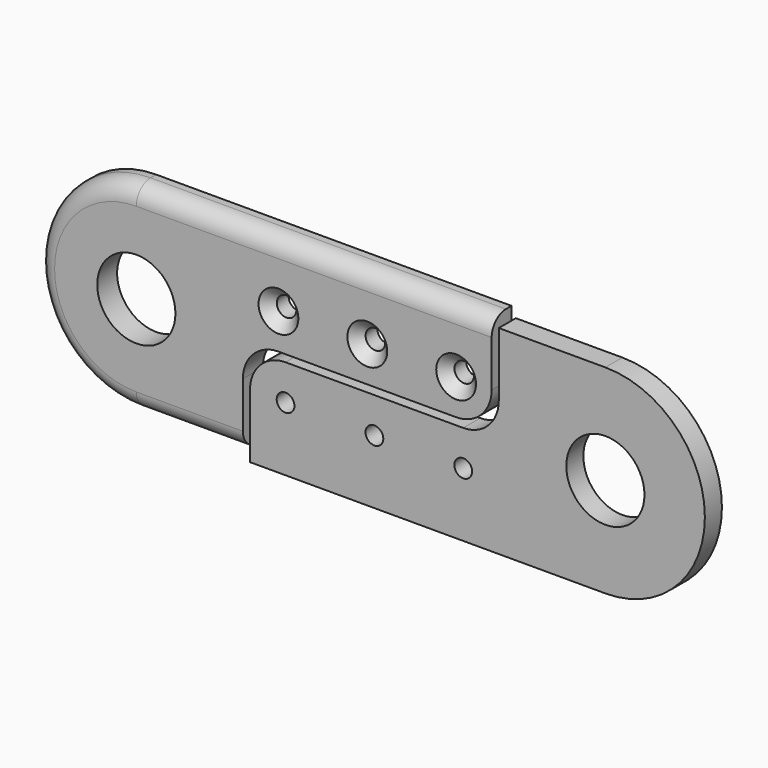
from build123d import *

# Parameters (mm, degrees)
F0_R           = 11
F0_R_2         = 2.5
F1_DEPTH       = 7
F2_R           = 5
F3_D           = 5.5
F3_CSINK_D     = 11.2
F3_CSINK_ANGLE = 90
F4_DEPTH       = 6


with BuildPart() as f1:
    # F0 (on Front) → F1 (new body)
    with BuildSketch(Plane.XZ):
        with BuildLine():
            Line((100, 28), (0, 28))
            ThreePointArc((0, 28), (-28, 0), (0, -28))
            Line((0, -28), (30, -28))
            Line((30, -28), (30, -10))
            ThreePointArc((30, -10), (32.9289321881, -2.9289321881), (40, 0))
            Line((40, 0), (90, 0))
            ThreePointArc((90, 0), (97.0710678119, 2.9289321881), (100, 10))
            Line((100, 10), (100, 28))
        make_face()
        Circle(F0_R, mode=Mode.SUBTRACT)
        with Locations((40, 10)):
            Circle(F0_R_2, mode=Mode.SUBTRACT)
        with Locations((65, 10)):
            Circle(F0_R_2, mode=Mode.SUBTRACT)
        with Locations((90, 10)):
            Circle(F0_R_2, mode=Mode.SUBTRACT)
    extrude(amount=-F1_DEPTH)

    # F2
    f2_edges = [f1.edges().sort_by_distance(p)[0] for p in [
        (50, 0, 28),
    ]]
    fillet(f2_edges, radius=F2_R)

    # F3 (through all)
    with Locations(Plane.XZ):
        with Locations((90, 10), (65, 10), (40, 10)):
            CounterSinkHole(F3_D / 2, F3_CSINK_D / 2, counter_sink_angle=F3_CSINK_ANGLE)


with BuildPart() as f4:
    # F0 (on Front) → F4 (new body)
    with BuildSketch(Plane.XZ):
        with BuildLine():
            Line((32, -30), (132, -30))
            ThreePointArc((132, -30), (160, -2), (132, 26))
            Line((132, 26), (102, 26))
            Line((102, 26), (102, 8))
            ThreePointArc((102, 8), (99.0710678119, 0.9289321881), (92, -2))
            Line((92, -2), (42, -2))
            ThreePointArc((42, -2), (34.9289321881, -4.9289321881), (32, -12))
            Line((32, -12), (32, -30))
        make_face()
        with Locations((42, -12)):
            Circle(F0_R_2, mode=Mode.SUBTRACT)
        with Locations((67, -12)):
            Circle(F0_R_2, mode=Mode.SUBTRACT)
        with Locations((92, -12)):
            Circle(F0_R_2, mode=Mode.SUBTRACT)
        with Locations((132, -2)):
            Circle(F0_R, mode=Mode.SUBTRACT)
    extrude(amount=-F4_DEPTH)


solid = Compound([f1.part, f4.part])
